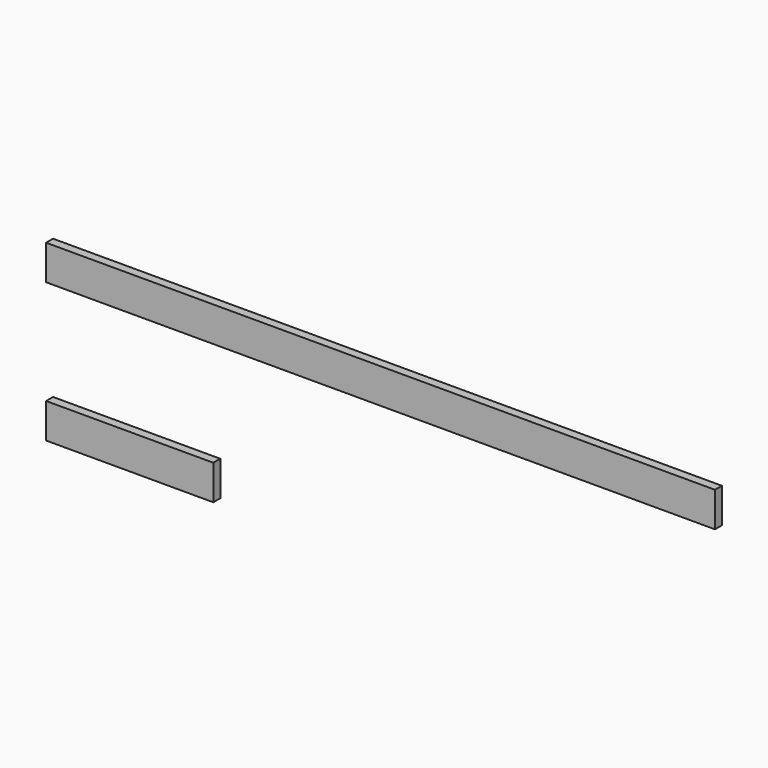
from build123d import *

# Parameters (mm, degrees)
F0_W     = 2438.4
F0_H     = 127
F1_DEPTH = 15.875
F3_W     = 1828.8
F3_H     = 127
F4_DEPTH = 31.75


with BuildPart() as f1:
    # F0 (on Front) → F1 (new body, symmetric)
    with BuildSketch(Plane.XZ):
        Rectangle(F0_W, F0_H)
    extrude(amount=F1_DEPTH, both=True)


with BuildPart() as f2_1:
    # F2: copy of F1
    add(f1.part.moved(Location((0, 0, -508))))

    # F3 (on face) → F4 (cut)
    with BuildSketch(Plane.XZ.offset(15.875)):
        with Locations((304.8, -508)):
            Rectangle(F3_W, F3_H)
    extrude(amount=-F4_DEPTH, mode=Mode.SUBTRACT)


solid = Compound([f1.part, f2_1.part])
